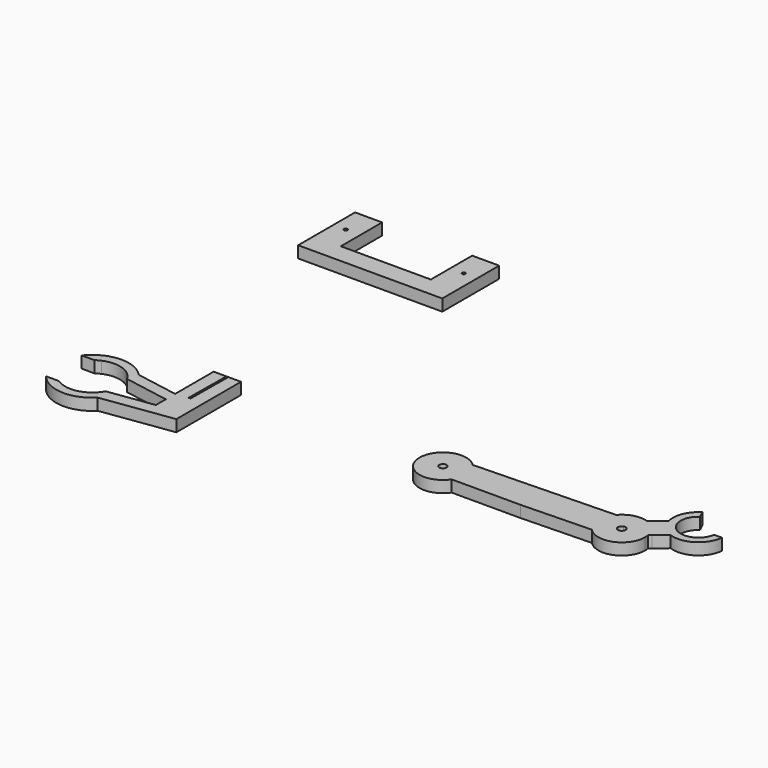
from build123d import *

# Parameters (mm, degrees)
F1_DEPTH = 76.2
F3_DEPTH = 76.2
F4_W     = 177.2577762604
F4_H     = 338.0736112595
F4_R     = 11.6028695054
F4_W_2   = 176.8524646759
F4_R_2   = 11.2564054706
F5_DEPTH = 76.2


with BuildPart() as f1:
    # F0 (on Top) → F1 (new body)
    with BuildSketch(Plane.XY):
        with BuildLine():
            ThreePointArc((1095.1752997667, 135.6541007105), (1116.5658010686, 101.8658208669), (1128.4971752627, 63.6971987989))
            Line((1128.4971752627, 63.6971987989), (1144.2365622902, 76.8227564091))
            Line((1144.2365622902, 76.8227564091), (1095.1752997667, 135.6541007105))
        make_face()
        with BuildLine():
            Line((1044.7935983844, 196.0688366559), (1028.1251670589, 182.1685205093))
            ThreePointArc((1028.1251670589, 182.1685205093), (1064.7997301472, 163.4512828361), (1095.1752997667, 135.6541007105))
            Line((1095.1752997667, 135.6541007105), (1044.7935983844, 196.0688366559))
        make_face()
        with BuildLine():
            ThreePointArc((-57.3019543636, 111.4951995236), (-26.3466717807, 64.5549196275), (-14.4595607319, 9.5975180566))
            Line((-14.4595607319, 9.5975180566), (405.0544798374, 21.357185673))
            Line((405.0544798374, 21.357185673), (402.1667251813, 124.3748612966))
            Line((402.1667251813, 124.3748612966), (-57.3019543636, 111.4951995236))
        make_face()
        with BuildLine():
            ThreePointArc((-57.3019543636, 111.4951995236), (-319.5433148438, -7.618457824), (-40.9717080637, -80.806260149))
            Line((-40.9717080637, -80.806260149), (-155.3050279617, -80.806260149))
            Line((-155.3050279617, -80.806260149), (-149.7238150028, -11.1118043692))
            ThreePointArc((-149.7238150028, -11.1118043692), (-191.1863363383, 7.2318864204), (-147.3329769737, 18.7433824014))
            Line((-147.3329769737, 18.7433824014), (-140.0911494629, 109.1744824022))
            Line((-140.0911494629, 109.1744824022), (-57.3019543636, 111.4951995236))
        make_face()
        with BuildLine():
            ThreePointArc((-14.4595607319, 9.5975180566), (-14.4145496581, 7.4563077804), (-14.3995449849, 5.3146770224))
            ThreePointArc((-14.3995449849, 5.3146770224), (-21.193584075, -39.7488771815), (-40.9717080637, -80.806260149))
            Line((-40.9717080637, -80.806260149), (407.9182890291, -80.806260149))
            Line((407.9182890291, -80.806260149), (405.0544798374, 21.357185673))
            Line((405.0544798374, 21.357185673), (-14.4595607319, 9.5975180566))
        make_face()
        with BuildLine():
            Line((402.1667251813, 124.3748612966), (405.0544798374, 21.357185673))
            Line((405.0544798374, 21.357185673), (824.001286806, 33.1009527998))
            ThreePointArc((824.001286806, 33.1009527998), (832.7371617864, 88.6003982795), (860.8684888632, 137.2330251583))
            Line((860.8684888632, 137.2330251583), (402.1667251813, 124.3748612966))
        make_face()
        with BuildLine():
            Line((824.001286806, 33.1009527998), (405.0544798374, 21.357185673))
            Line((405.0544798374, 21.357185673), (407.9182890291, -80.806260149))
            Line((407.9182890291, -80.806260149), (865.8511996058, -67.9696485027))
            ThreePointArc((865.8511996058, -67.9696485027), (835.6115621661, -21.2912417875), (824.001286806, 33.1009527998))
        make_face()
        with BuildLine():
            Line((1095.1752997667, 35.909064754), (1128.4971752627, 63.6971987989))
            ThreePointArc((1128.4971752627, 63.6971987989), (1116.5658010686, 101.8658208669), (1095.1752997667, 135.6541007105))
            Line((1095.1752997667, 135.6541007105), (1046.1140372432, 94.7404090553))
            Line((1046.1140372432, 94.7404090553), (1095.1752997667, 35.909064754))
        make_face()
        with BuildLine():
            Line((1044.7935983844, 196.0688366559), (1095.1752997667, 135.6541007105))
            Line((1095.1752997667, 135.6541007105), (1150.335278326, 181.6536987314))
            ThreePointArc((1150.335278326, 181.6536987314), (1126.9745407391, 214.6579417894), (1112.2365223529, 252.3115596035))
            Line((1112.2365223529, 252.3115596035), (1044.7935983844, 196.0688366559))
        make_face()
        with BuildLine():
            Line((1150.335278326, 181.6536987314), (1095.1752997667, 135.6541007105))
            Line((1095.1752997667, 135.6541007105), (1144.2365622902, 76.8227564091))
            Line((1144.2365622902, 76.8227564091), (1216.5479707423, 137.1254578967))
            ThreePointArc((1216.5479707423, 137.1254578967), (1180.7414315667, 155.3744399868), (1150.335278326, 181.6536987314))
        make_face()
        with BuildLine():
            Line((-143.2374652301, 5.9876618736), (-14.4595607319, 9.5975180566))
            ThreePointArc((-14.4595607319, 9.5975180566), (-26.3466717807, 64.5549196275), (-57.3019543636, 111.4951995236))
            Line((-57.3019543636, 111.4951995236), (-140.0911494629, 109.1744824022))
            Line((-140.0911494629, 109.1744824022), (-147.3329769737, 18.7433824014))
            ThreePointArc((-147.3329769737, 18.7433824014), (-144.3778167398, 12.6568647718), (-143.2374652301, 5.9876618736))
        make_face()
        with BuildLine():
            ThreePointArc((-40.9717080637, -80.806260149), (-21.193584075, -39.7488771815), (-14.3995449849, 5.3146770224))
            ThreePointArc((-14.3995449849, 5.3146770224), (-14.4145496581, 7.4563077804), (-14.4595607319, 9.5975180566))
            Line((-14.4595607319, 9.5975180566), (-143.2374652301, 5.9876618736))
            ThreePointArc((-143.2374652301, 5.9876618736), (-143.2303924084, 5.6512024842), (-143.2280346469, 5.3146770224))
            ThreePointArc((-143.2280346469, 5.3146770224), (-144.9109403889, -3.5174299366), (-149.7238150028, -11.1118043692))
            Line((-149.7238150028, -11.1118043692), (-155.3050279617, -80.806260149))
            Line((-155.3050279617, -80.806260149), (-40.9717080637, -80.806260149))
        make_face()
        with BuildLine():
            ThreePointArc((860.8684888632, 137.2330251583), (832.7371617864, 88.6003982795), (824.001286806, 33.1009527998))
            Line((824.001286806, 33.1009527998), (952.1741089641, 36.693847531))
            ThreePointArc((952.1741089641, 36.693847531), (956.5830422673, 51.6508895134), (968.9513483855, 61.1470361793))
            Line((968.9513483855, 61.1470361793), (960.3673065373, 122.327812016))
            Line((960.3673065373, 122.327812016), (960.3673065373, 140.0221404463))
            Line((960.3673065373, 140.0221404463), (860.8684888632, 137.2330251583))
        make_face()
        with BuildLine():
            Line((952.1741089641, 36.693847531), (824.001286806, 33.1009527998))
            ThreePointArc((824.001286806, 33.1009527998), (835.6115621661, -21.2912417875), (865.8511996058, -67.9696485027))
            Line((865.8511996058, -67.9696485027), (986.5923425929, -64.5850759453))
            Line((986.5923425929, -64.5850759453), (975.8109543977, 12.2567785152))
            ThreePointArc((975.8109543977, 12.2567785152), (959.2482829239, 19.886420857), (952.1741089641, 36.693847531))
        make_face()
        with BuildLine():
            Line((986.5923425929, -64.5850759453), (865.8511996058, -67.9696485027))
            ThreePointArc((865.8511996058, -67.9696485027), (1034.0535832989, -105.151655125), (1130.767885586, 37.3996943235))
            ThreePointArc((1130.767885586, 37.3996943235), (1130.1991538085, 50.5973727842), (1128.4971752627, 63.6971987989))
            Line((1128.4971752627, 63.6971987989), (1095.1752997667, 35.909064754))
            Line((1095.1752997667, 35.909064754), (1046.1140372432, 94.7404090553))
            Line((1046.1140372432, 94.7404090553), (996.7004677166, 53.5329177841))
            ThreePointArc((996.7004677166, 53.5329177841), (1001.0386306557, 45.9792650674), (1002.544715946, 37.3996943235))
            ThreePointArc((1002.544715946, 37.3996943235), (994.6123228298, 19.049897173), (975.8109543977, 12.2567785152))
            Line((975.8109543977, 12.2567785152), (986.5923425929, -64.5850759453))
        make_face()
        with BuildLine():
            ThreePointArc((1112.2365223529, 252.3115596035), (1126.9745407391, 214.6579417894), (1150.335278326, 181.6536987314))
            Line((1150.335278326, 181.6536987314), (1189.7543229351, 214.5264491157))
            ThreePointArc((1189.7543229351, 214.5264491157), (1158.8582295045, 305.8033531838), (1207.8354615505, 388.7929461858))
            Line((1207.8354615505, 388.7929461858), (1185.7147954199, 435.5819454318))
            ThreePointArc((1185.7147954199, 435.5819454318), (1118.9667129191, 355.9781863812), (1112.2365223529, 252.3115596035))
        make_face()
        with BuildLine():
            Line((1189.7543229351, 214.5264491157), (1150.335278326, 181.6536987314))
            ThreePointArc((1150.335278326, 181.6536987314), (1180.7414315667, 155.3744399868), (1216.5479707423, 137.1254578967))
            ThreePointArc((1216.5479707423, 137.1254578967), (1362.9301215678, 152.7114001502), (1440.033993001, 278.1133486449))
            Line((1440.033993001, 278.1133486449), (1388.4400421367, 278.1133486449))
            ThreePointArc((1388.4400421367, 278.1133486449), (1309.127275122, 183.7332123048), (1189.7543229351, 214.5264491157))
        make_face()
        with BuildLine():
            ThreePointArc((1028.1251670589, 182.1685205093), (937.5496415387, 185.5592465132), (860.8684888632, 137.2330251583))
            Line((860.8684888632, 137.2330251583), (960.3673065373, 140.0221404463))
            Line((960.3673065373, 140.0221404463), (960.3673065373, 122.327812016))
            Line((960.3673065373, 122.327812016), (968.9513483855, 61.1470361793))
            ThreePointArc((968.9513483855, 61.1470361793), (984.0200777527, 61.6920445269), (996.7004677166, 53.5329177841))
            Line((996.7004677166, 53.5329177841), (1046.1140372432, 94.7404090553))
            Line((1046.1140372432, 94.7404090553), (1095.1752997667, 135.6541007105))
            ThreePointArc((1095.1752997667, 135.6541007105), (1064.7997301472, 163.4512828361), (1028.1251670589, 182.1685205093))
        make_face()
    extrude(amount=F1_DEPTH)


with BuildPart() as f3:
    # F2 (on Top) → F3 (new body)
    with BuildSketch(Plane.XY):
        Polygon((-1652.0482970075, 90.3020948172), (-1646.0153460503, 90.3020948172), (-1639.2679214478, 90.3020948172), (-1652.0471572876, 90.4227793217), align=None)
    extrude(amount=F3_DEPTH)


with BuildPart() as f3b:
    # F2 (on Top) → F3, piece 2 (new body)
    with BuildSketch(Plane.XY):
        Polygon((-1556.3532114029, -438.7048780918), (-1556.3532114029, -356.9832097116), (-1735.6774806976, -382.3950311785), (-1735.6774806976, -438.7048780918), align=None)
        with BuildLine():
            Line((-2030.4295234081, -172.798871994), (-2012.4154545584, -175.9668304321))
            ThreePointArc((-2012.4154545584, -175.9668304321), (-2013.8946997096, -174.3760426155), (-2015.3884550194, -172.798871994))
            Line((-2015.3884550194, -172.798871994), (-2030.4295234081, -172.798871994))
        make_face()
        with BuildLine():
            Line((-2019.0768241882, -504.2768716812), (-1556.3532114029, -438.7048780918))
            Line((-1556.3532114029, -438.7048780918), (-1735.6774806976, -438.7048780918))
            Line((-1735.6774806976, -438.7048780918), (-1735.6774806976, -382.3950311785))
            Line((-1735.6774806976, -382.3950311785), (-1962.8486229975, -414.587174123))
            ThreePointArc((-1962.8486229975, -414.5871741231), (-1985.8940820433, -462.6096520454), (-2019.0768241882, -504.2768716812))
        make_face()
        with BuildLine():
            Line((-1735.6774806976, -300.9731173515), (-1735.6774806976, -224.6340364218))
            Line((-1735.6774806976, -224.6340364218), (-2012.4154545584, -175.9668304321))
            ThreePointArc((-2012.4154545584, -175.9668304321), (-1982.7165245575, -215.9089130519), (-1962.0091323813, -261.1703791844))
            Line((-1962.0091323813, -261.1703791844), (-1735.6774806976, -300.9731173515))
        make_face()
        with BuildLine():
            Line((-2030.4295234081, -424.1639803332), (-2019.0768241882, -504.2768716812))
            ThreePointArc((-2019.0768241882, -504.2768716812), (-1985.8940820433, -462.6096520454), (-1962.8486229975, -414.5871741231))
            Line((-1962.8486229975, -414.587174123), (-2030.4295234081, -424.1639803332))
        make_face()
        with BuildLine():
            Line((-2123.4450143506, -504.2768716812), (-2019.0768241882, -504.2768716812))
            Line((-2019.0768241882, -504.2768716812), (-2030.4295234081, -424.1639803332))
            ThreePointArc((-2030.4295234081, -424.1639803332), (-2069.8633375497, -472.4336509258), (-2123.4450143506, -504.2768716812))
        make_face()
        with BuildLine():
            Line((-2259.37945677, -172.798871994), (-2358.2335277076, -172.798871994))
            ThreePointArc((-2358.2335277076, -172.798871994), (-2366.2375797297, -181.6048629367), (-2373.7897872925, -190.8013017139))
            Line((-2373.7897872925, -190.8013017139), (-2290.9338338711, -190.8013017139))
            ThreePointArc((-2290.9338338711, -190.8013017139), (-2275.6140118192, -180.9984220123), (-2259.37945677, -172.798871994))
        make_face()
        with BuildLine():
            ThreePointArc((-2372.282743454, -484.4123420255), (-2363.6930289923, -494.5938032721), (-2354.5451585388, -504.2768716812))
            Line((-2354.5451585388, -504.2768716812), (-2250.1769683764, -504.2768716812))
            ThreePointArc((-2250.1769683764, -504.2768716812), (-2269.7864030039, -495.486643196), (-2288.2026430333, -484.4123420255))
            Line((-2288.2026430333, -484.4123420255), (-2372.282743454, -484.4123420255))
        make_face()
        with BuildLine():
            ThreePointArc((-2354.5451585388, -504.2768716812), (-2186.8109913635, -573.7863601966), (-2019.0768241882, -504.2768716812))
            Line((-2019.0768241882, -504.2768716812), (-2123.4450143506, -504.2768716812))
            ThreePointArc((-2123.4450143506, -504.2768716812), (-2186.8109913635, -515.8538993264), (-2250.1769683764, -504.2768716812))
            Line((-2250.1769683764, -504.2768716812), (-2354.5451585388, -504.2768716812))
        make_face()
        Polygon((-1556.3532114029, 90.3020948172), (-1639.2679214478, 90.3020948172), (-1642.1512293129, -215.0102678422), (-1654.9311892219, -214.9662547422), (-1652.0482970075, 90.3020948172), (-1735.6774806976, 90.3020948172), (-1735.6774806976, -224.6340364218), (-1735.6774806976, -300.9731173515), (-1735.6774806976, -382.3950311785), (-1556.3532114029, -356.9832097116), align=None)
        with BuildLine():
            ThreePointArc((-1962.0091323813, -261.1703791844), (-1982.7165245575, -215.9089130519), (-2012.4154545584, -175.9668304321))
            Line((-2012.4154545584, -175.9668304321), (-2030.4295234081, -172.798871994))
            Line((-2030.4295234081, -172.798871994), (-2030.4295234081, -249.1379529238))
            Line((-2030.4295234081, -249.1379529238), (-1962.0091323813, -261.1703791844))
        make_face()
        with BuildLine():
            Line((-2114.242525957, -172.798871994), (-2030.4295234081, -172.798871994))
            Line((-2030.4295234081, -172.798871994), (-2015.3884550194, -172.798871994))
            ThreePointArc((-2015.3884550194, -172.798871994), (-2186.8109913635, -99.5155730603), (-2358.2335277076, -172.798871994))
            Line((-2358.2335277076, -172.798871994), (-2259.37945677, -172.798871994))
            ThreePointArc((-2259.37945677, -172.798871994), (-2186.8109913635, -157.4480339305), (-2114.242525957, -172.798871994))
        make_face()
        with BuildLine():
            Line((-2030.4295234081, -249.1379529238), (-2030.4295234081, -172.798871994))
            Line((-2030.4295234081, -172.798871994), (-2114.242525957, -172.798871994))
            ThreePointArc((-2114.242525957, -172.798871994), (-2066.140233448, -204.1660268366), (-2030.4295234081, -249.1379529238))
        make_face()
    extrude(amount=F3_DEPTH)


with BuildPart() as f5:
    # F4 (on Top) → F5 (new body)
    with BuildSketch(Plane.XY):
        with Locations((-2183.6353540421, 1748.8577961922)):
            Rectangle(F4_W, F4_H)
        with Locations((-2190.2084350586, 1738.623380661)):
            Circle(F4_R, mode=Mode.SUBTRACT)
        Polygon((-1506.0250759125, 1579.8209905624), (-2095.0064659119, 1579.8209905624), (-2272.2642421722, 1579.8209905624), (-2272.2642421722, 1452.3619413376), (-1329.1726112366, 1452.3619413376), (-1329.1726112366, 1579.8209905624), align=None)
        with Locations((-1417.5988435745, 1748.8577961922)):
            Rectangle(F4_W_2, F4_H)
        with Locations((-1417.4840450287, 1738.623380661)):
            Circle(F4_R_2, mode=Mode.SUBTRACT)
    extrude(amount=F5_DEPTH)


solid = Compound([f1.part, f3.part, f3b.part, f5.part])
